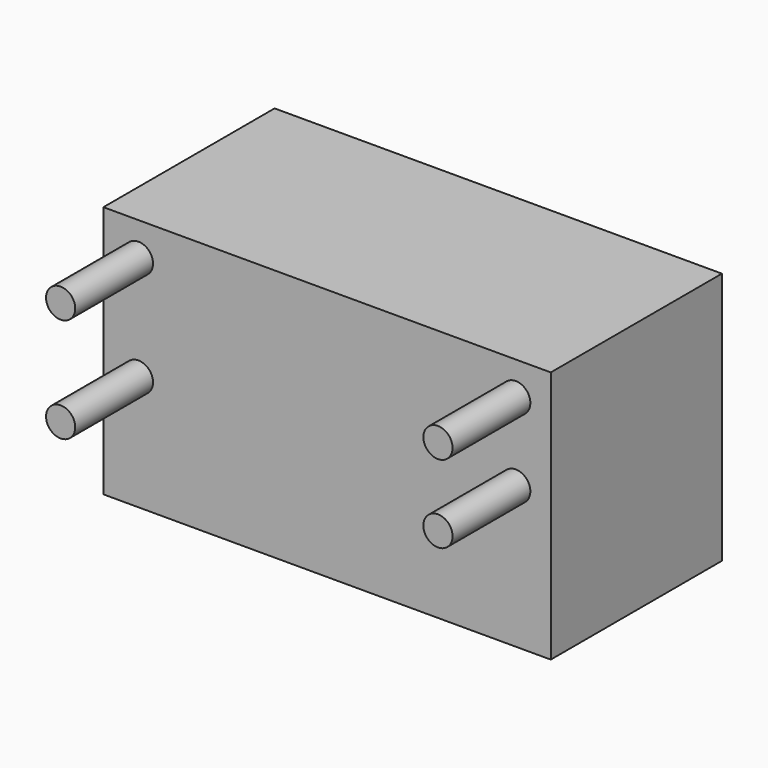
from build123d import *

# Parameters (mm, degrees)
F0_W     = 46
F0_H     = 26
F1_DEPTH = 22
F2_R     = 1.5
F3_DEPTH = 10


with BuildPart() as f1:
    # F0 (on Front) → F1 (new body)
    with BuildSketch(Plane.XZ):
        Rectangle(F0_W, F0_H)
    extrude(amount=F1_DEPTH)

    # F2 (on face) → F3 (join)
    with BuildSketch(Plane.XZ.offset(22)):
        with Locations((-19.4, 9.55)):
            Circle(F2_R)
        with Locations((-19.4, -1.2)):
            Circle(F2_R)
        with Locations((19.4, 9.55)):
            Circle(F2_R)
        with Locations((19.4, 1.55)):
            Circle(F2_R)
    extrude(amount=F3_DEPTH)


solid = f1.part
